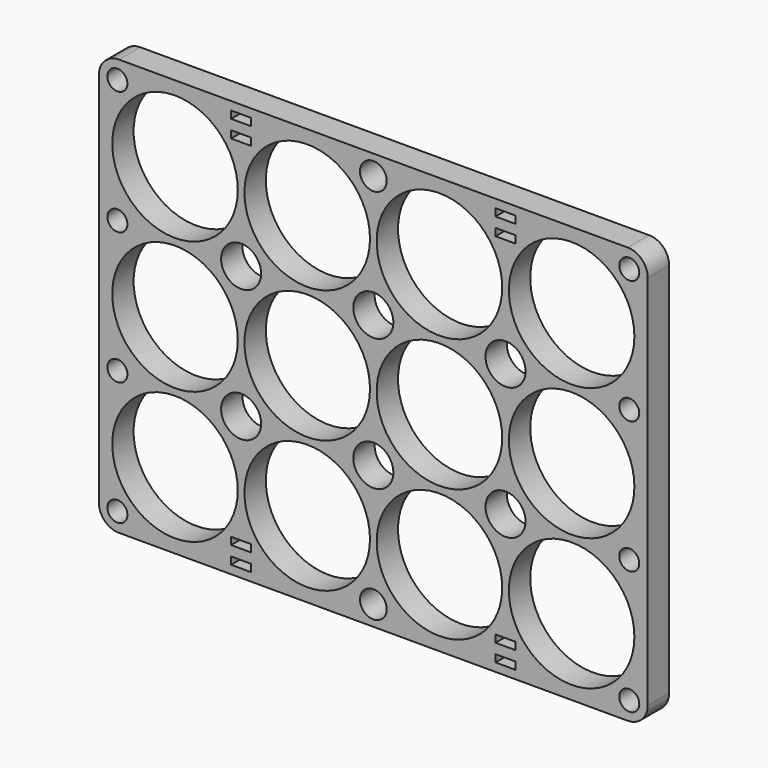
from build123d import *

# Parameters (mm, degrees)
F0_W     = 82.2
F0_H     = 62.4
F0_R     = 1.5
F0_R_2   = 9.4
F0_W_2   = 3
F0_H_2   = 1.1
F0_R_3   = 3
F0_R_4   = 2
F1_DEPTH = 4
F2_R     = 3


with BuildPart() as f1:
    # F0 (on Front) → F1 (new body)
    with BuildSketch(Plane.XZ):
        with Locations((29.7, 19.8)):
            Rectangle(F0_W, F0_H)
        with Locations((-8.630646, -8.630646)):
            Circle(F0_R, mode=Mode.SUBTRACT)
        Circle(F0_R_2, mode=Mode.SUBTRACT)
        with Locations((9.9, -9.6)):
            Rectangle(F0_W_2, F0_H_2, mode=Mode.SUBTRACT)
        with Locations((9.9, -7)):
            Rectangle(F0_W_2, F0_H_2, mode=Mode.SUBTRACT)
        with Locations((19.8, 0)):
            Circle(F0_R_2, mode=Mode.SUBTRACT)
        with Locations((-8.630646, 9.9)):
            Circle(F0_R, mode=Mode.SUBTRACT)
        with Locations((9.9, 9.9)):
            Circle(F0_R_3, mode=Mode.SUBTRACT)
        with Locations((29.7, -8.425556)):
            Circle(F0_R_4, mode=Mode.SUBTRACT)
        with Locations((49.5, -9.6)):
            Rectangle(F0_W_2, F0_H_2, mode=Mode.SUBTRACT)
        with Locations((49.5, -7)):
            Rectangle(F0_W_2, F0_H_2, mode=Mode.SUBTRACT)
        with Locations((39.6, 0)):
            Circle(F0_R_2, mode=Mode.SUBTRACT)
        with Locations((68.030646, -8.630646)):
            Circle(F0_R, mode=Mode.SUBTRACT)
        with Locations((59.4, 0)):
            Circle(F0_R_2, mode=Mode.SUBTRACT)
        with Locations((29.7, 9.9)):
            Circle(F0_R_3, mode=Mode.SUBTRACT)
        with Locations((49.5, 9.9)):
            Circle(F0_R_3, mode=Mode.SUBTRACT)
        with Locations((68.030646, 9.9)):
            Circle(F0_R, mode=Mode.SUBTRACT)
        with Locations((0, 19.8)):
            Circle(F0_R_2, mode=Mode.SUBTRACT)
        with Locations((-8.630646, 29.7)):
            Circle(F0_R, mode=Mode.SUBTRACT)
        with Locations((19.8, 19.8)):
            Circle(F0_R_2, mode=Mode.SUBTRACT)
        with Locations((9.9, 29.7)):
            Circle(F0_R_3, mode=Mode.SUBTRACT)
        with Locations((0, 39.6)):
            Circle(F0_R_2, mode=Mode.SUBTRACT)
        with Locations((-8.630646, 48.230646)):
            Circle(F0_R, mode=Mode.SUBTRACT)
        with Locations((19.8, 39.6)):
            Circle(F0_R_2, mode=Mode.SUBTRACT)
        with Locations((9.9, 46.6)):
            Rectangle(F0_W_2, F0_H_2, mode=Mode.SUBTRACT)
        with Locations((9.9, 49.2)):
            Rectangle(F0_W_2, F0_H_2, mode=Mode.SUBTRACT)
        with Locations((39.6, 19.8)):
            Circle(F0_R_2, mode=Mode.SUBTRACT)
        with Locations((29.7, 29.7)):
            Circle(F0_R_3, mode=Mode.SUBTRACT)
        with Locations((49.5, 29.7)):
            Circle(F0_R_3, mode=Mode.SUBTRACT)
        with Locations((59.4, 19.8)):
            Circle(F0_R_2, mode=Mode.SUBTRACT)
        with Locations((68.030646, 29.7)):
            Circle(F0_R, mode=Mode.SUBTRACT)
        with Locations((39.6, 39.6)):
            Circle(F0_R_2, mode=Mode.SUBTRACT)
        with Locations((29.7, 48.025556)):
            Circle(F0_R_4, mode=Mode.SUBTRACT)
        with Locations((49.5, 46.6)):
            Rectangle(F0_W_2, F0_H_2, mode=Mode.SUBTRACT)
        with Locations((49.5, 49.2)):
            Rectangle(F0_W_2, F0_H_2, mode=Mode.SUBTRACT)
        with Locations((59.4, 39.6)):
            Circle(F0_R_2, mode=Mode.SUBTRACT)
        with Locations((68.030646, 48.230646)):
            Circle(F0_R, mode=Mode.SUBTRACT)
    extrude(amount=F1_DEPTH)

    # F2
    f2_edges = [f1.edges().sort_by_distance(p)[0] for p in [
        (70.8, -2, 51),
        (-11.4, -2, 51),
        (-11.4, -2, -11.4),
        (70.8, -2, -11.4),
    ]]
    fillet(f2_edges, radius=F2_R)


solid = f1.part
